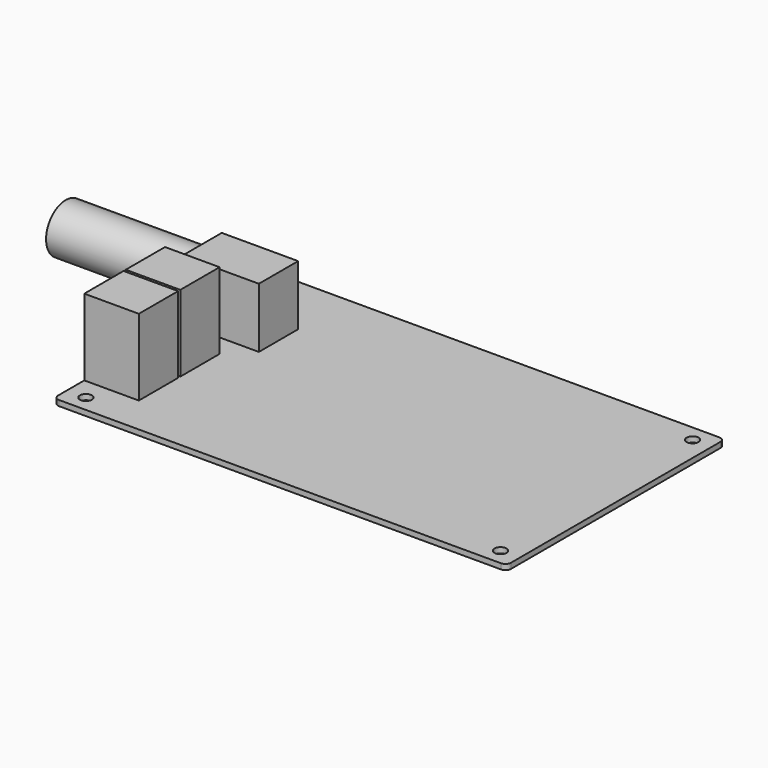
from build123d import *

# Parameters (mm, degrees)
F0_R     = 1.1
F1_DEPTH = 1
F2_W     = 10
F2_H     = 9
F3_DEPTH = 14
F2_W_2   = 14
F4_DEPTH = 11
F6_DEPTH = 25


with BuildPart() as f1:
    # F0 (on Top) → F1 (new body)
    with BuildSketch(Plane.XY):
        with BuildLine():
            ThreePointArc((0, 1), (0.2928932188, 0.2928932188), (1, 0))
            Line((1, 0), (82, 0))
            ThreePointArc((82, 0), (82.7071067812, 0.2928932188), (83, 1))
            Line((83, 1), (83, 49))
            ThreePointArc((83, 49), (82.7071067812, 49.7071067812), (82, 50))
            Line((82, 50), (1, 50))
            ThreePointArc((1, 50), (0.2928932188, 49.7071067812), (0, 49))
            Line((0, 49), (0, 1))
        make_face()
        with Locations((3.5, 3)):
            Circle(F0_R, mode=Mode.SUBTRACT)
        with Locations((79.5, 3)):
            Circle(F0_R, mode=Mode.SUBTRACT)
        with Locations((3.5, 47)):
            Circle(F0_R, mode=Mode.SUBTRACT)
        with Locations((79.5, 47)):
            Circle(F0_R, mode=Mode.SUBTRACT)
    extrude(amount=F1_DEPTH)

    # F2 (on face) → F3 (join)
    with BuildSketch(Plane.XY.offset(1)):
        with Locations((5, 11.5)):
            Rectangle(F2_W, F2_H)
        with Locations((5, 21)):
            Rectangle(F2_W, F2_H)
    extrude(amount=F3_DEPTH)

    # F2 (on face) → F4 (join)
    with BuildSketch(Plane.XY.offset(1)):
        with Locations((7, 34)):
            Rectangle(F2_W_2, F2_H)
    extrude(amount=F4_DEPTH)

    # F5 (on face) → F6 (join)
    with BuildSketch(Plane(origin=(0, 0, 0), x_dir=(0, -1, 0), z_dir=(-1, 0, 0))):
        with BuildLine():
            ThreePointArc((-38.5, 6.5), (-34, 2), (-29.5, 6.5))
            ThreePointArc((-29.5, 6.5), (-34, 11), (-38.5, 6.5))
        make_face()
    extrude(amount=F6_DEPTH)


solid = f1.part
